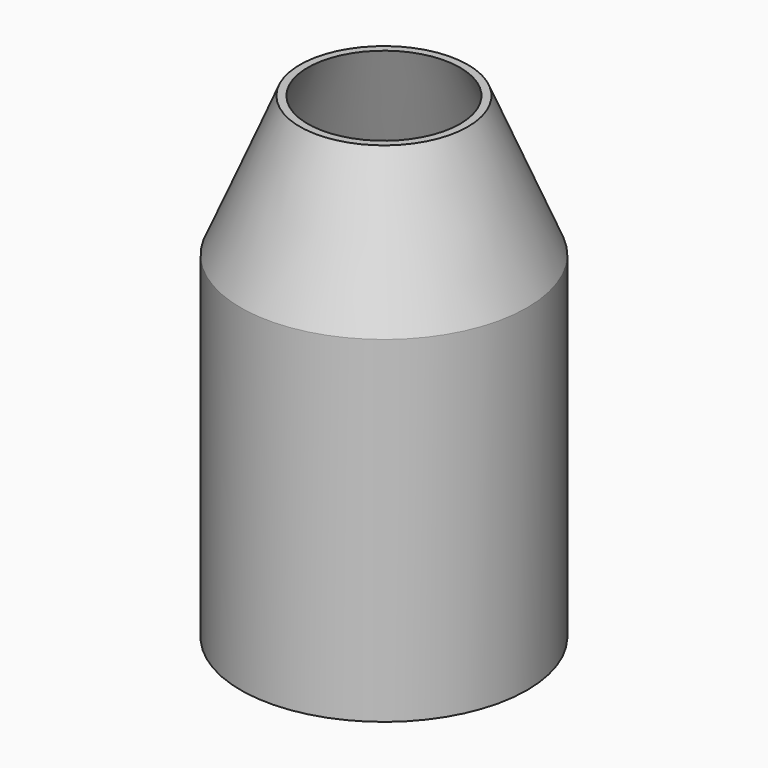
from build123d import *

# Parameters (mm, degrees)
F2_R     = 29.7149419412
F0_R     = 50.6662740333
F4_DEPTH = 119.126
F5_T     = -2.54


with BuildPart() as f3:
    # F2 (on offset) → F3 section 0
    with BuildSketch(Plane.XY.offset(49.53)):
        Circle(F2_R)
    # F0 (on Top) → F3 section 1
    with BuildSketch(Plane.XY):
        Circle(F0_R)
    loft()

    # F4 (add): a face of the model
    f4_faces = [f3.faces().sort_by_distance(p)[0] for p in [
        (0, 0, 0),
    ]]
    extrude(f4_faces, amount=F4_DEPTH)

    # F5
    f5_openings = [f3.faces().sort_by_distance(p)[0] for p in [
        (0, 0, 49.53),
    ]]
    offset(amount=F5_T, openings=f5_openings, kind=Kind.INTERSECTION)


solid = f3.part
